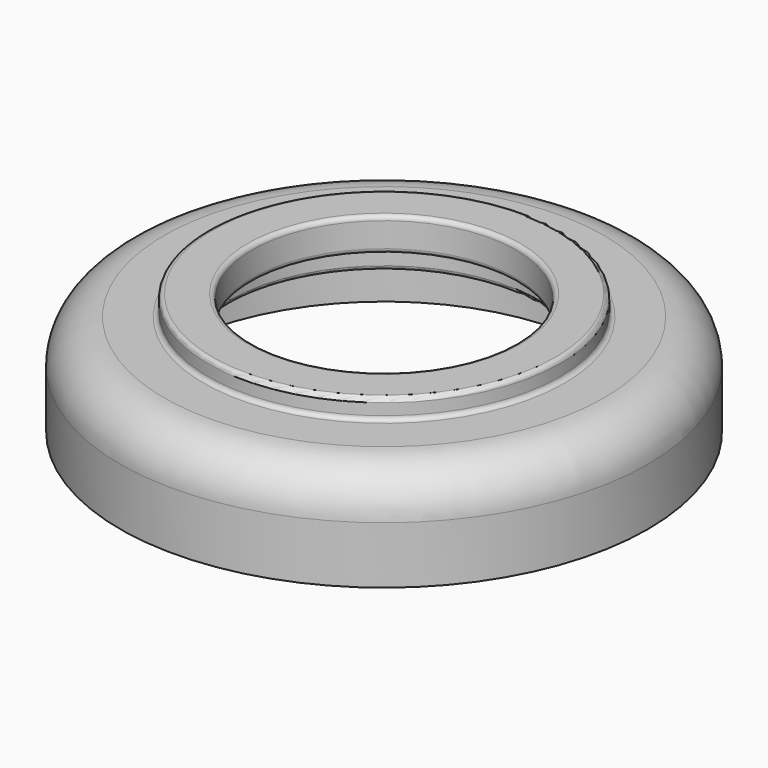
from build123d import *


with BuildPart() as f1:
    # F0 (on Front) → F1 (revolve)
    with BuildSketch(Plane.XZ):
        with BuildLine():
            Line((38.1, 8.382), (38.1, 1.27))
            ThreePointArc((38.1, 1.27), (38.471974, 0.371974), (39.37, 0))
            Line((39.37, 0), (43.18, 0))
            ThreePointArc((43.18, 0), (44.078026, -0.371974), (44.45, -1.27))
            Line((44.45, -1.27), (44.45, -6.35))
            ThreePointArc((44.45, -6.35), (44.821974, -7.248026), (45.72, -7.62))
            Line((45.72, -7.62), (55.88, -7.62))
            ThreePointArc((55.88, -7.62), (61.268154, -9.851846), (63.5, -15.24))
            Line((63.5, -15.24), (63.5, -25.4))
            Line((63.5, -25.4), (76.2, -25.4))
            Line((76.2, -25.4), (76.2, -8.89))
            ThreePointArc((76.2, -8.89), (72.480256, 0.090256), (63.5, 3.81))
            Line((63.5, 3.81), (52.07, 3.81))
            ThreePointArc((52.07, 3.81), (51.171974, 4.181974), (50.8, 5.08))
            Line((50.8, 5.08), (50.8, 8.382))
            ThreePointArc((50.8, 8.382), (50.428026, 9.280026), (49.53, 9.652))
            Line((49.53, 9.652), (39.37, 9.652))
            ThreePointArc((39.37, 9.652), (38.471974, 9.280026), (38.1, 8.382))
        make_face()
    revolve(axis=Axis((0, 0, -7.769779), (0, 0, -1)))


solid = f1.part
